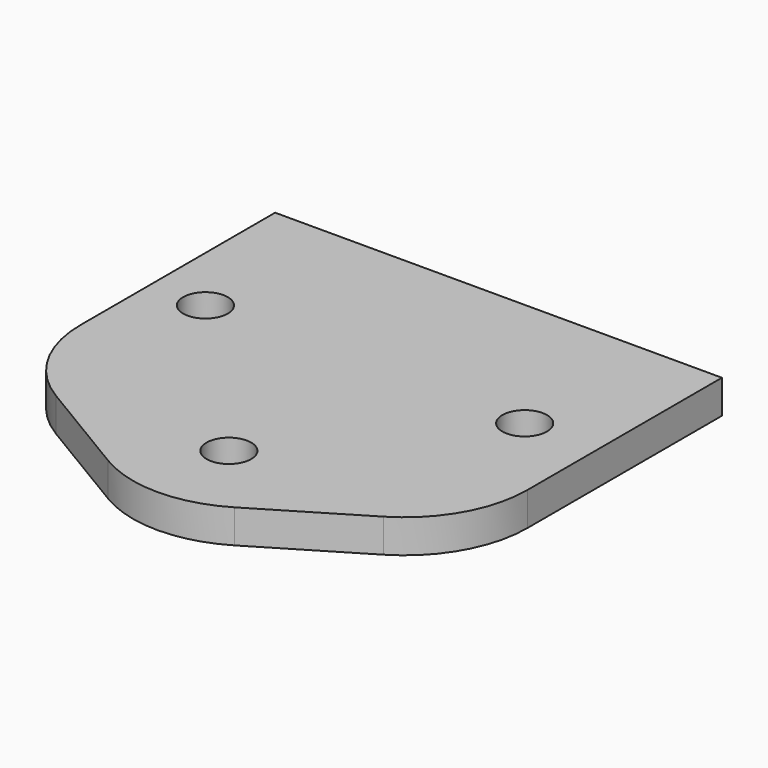
from build123d import *

# Parameters (mm, degrees)
F0_R     = 6.35
F1_DEPTH = 9.525


with BuildPart() as f1:
    # F0 (on Top) → F1 (new body)
    with BuildSketch(Plane.XY):
        with BuildLine():
            Line((63.5, 63.5), (-63.5, 63.5))
            Line((-63.5, 63.5), (-63.5, -5.625801))
            ThreePointArc((-63.5, -5.625801), (-58.966732, -22.833307), (-46.543764, -35.573741))
            Line((-46.543764, -35.573741), (-17.968764, -52.718741))
            ThreePointArc((-17.968764, -52.718741), (0, -57.695801), (17.968764, -52.718741))
            Line((17.968764, -52.718741), (46.543764, -35.573741))
            ThreePointArc((46.543764, -35.573741), (58.966732, -22.833307), (63.5, -5.625801))
            Line((63.5, -5.625801), (63.5, 63.5))
        make_face()
        with Locations((0, -32.295801)):
            Circle(F0_R, mode=Mode.SUBTRACT)
        with Locations((-47.742878, 19.05)):
            Circle(F0_R, mode=Mode.SUBTRACT)
        with Locations((42.999213, 19.05)):
            Circle(F0_R, mode=Mode.SUBTRACT)
    extrude(amount=F1_DEPTH)


solid = f1.part
